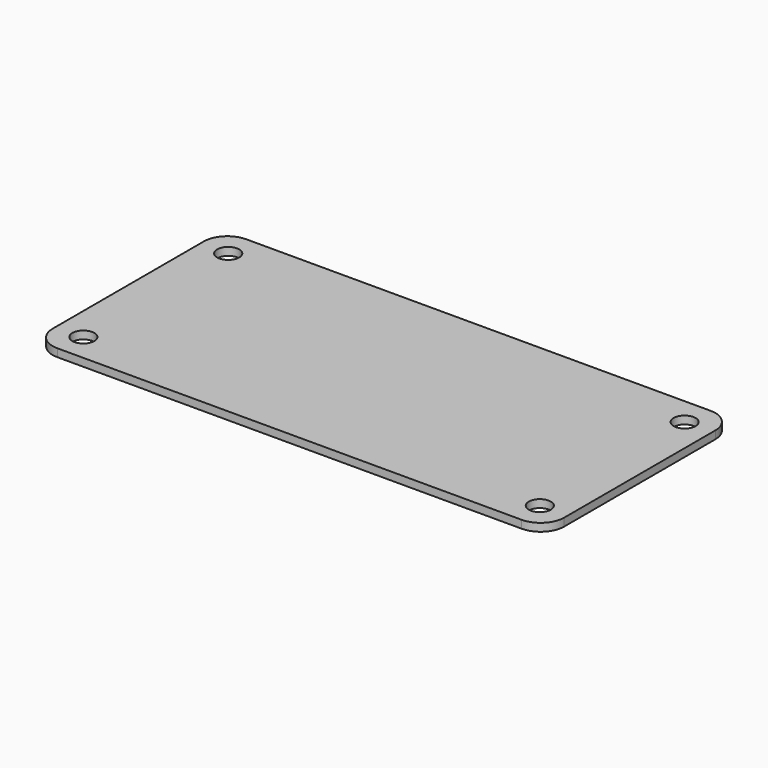
from build123d import *

# Parameters (mm, degrees)
SKETCH018_W            = 65
SKETCH018_H            = 30
PAD014_DEPTH           = 1
FILLET007_R            = 3
SKETCH019_R            = 1.4
POCKET003_DEPTH        = 5
LINEARPATTERN007_COUNT = 2
LINEARPATTERN007_PITCH = 58


with BuildPart() as part:
    # Sketch018 (on Face1 of ReferencePad013) → Pad014 (new body)
    with BuildSketch(Plane.XY.offset(16.5)):
        with Locations((32.5, 15)):
            Rectangle(SKETCH018_W, SKETCH018_H)
    extrude(amount=PAD014_DEPTH)

    # Fillet007
    fillet007_edges = [part.edges().sort_by_distance(p)[0] for p in [
        (0, 0, 17),
        (0, 30, 17),
        (65, 0, 17),
        (65, 30, 17),
    ]]
    fillet(fillet007_edges, radius=FILLET007_R)

    # Sketch019 (on Face5 of Fillet007) → Pocket003 (cut)
    with BuildSketch(Plane.XY.offset(17.5)):
        with Locations((3.5, 26.5)):
            Circle(SKETCH019_R)
        with Locations((3.5, 3.5)):
            Circle(SKETCH019_R)
    pocket003 = extrude(amount=-POCKET003_DEPTH, mode=Mode.SUBTRACT)

    # LinearPattern007: Pocket003 ×2
    with Locations(*[(i * LINEARPATTERN007_PITCH, 0, 0) for i in range(1, LINEARPATTERN007_COUNT)]):
        add(pocket003, mode=Mode.SUBTRACT)


solid = part.part
